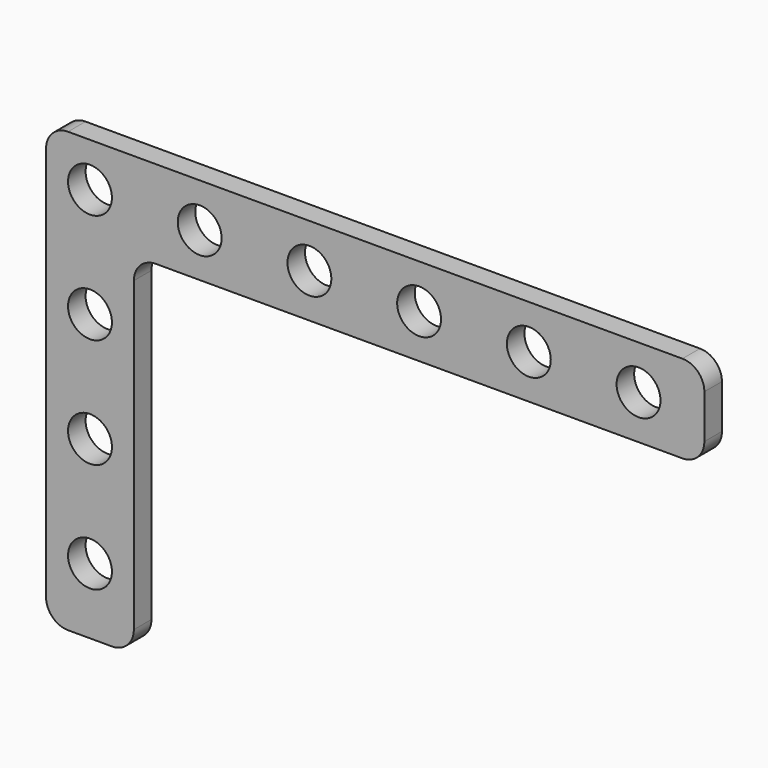
from build123d import *

# Parameters (mm, degrees)
F0_R     = 2
F1_DEPTH = 2
F2_R     = 2


with BuildPart() as f1:
    # F0 (on Front) → F1 (new body)
    with BuildSketch(Plane.XZ):
        Polygon((-17.038149, 20.423017), (-17.038149, -19.576983), (-9.038149, -19.576983), (-9.038149, 12.423017), (42.961851, 12.423017), (42.961851, 20.423017), align=None)
        with Locations((-13.038149, -13.576983)):
            Circle(F0_R, mode=Mode.SUBTRACT)
        with Locations((-13.038149, -3.576983)):
            Circle(F0_R, mode=Mode.SUBTRACT)
        with Locations((-13.038149, 6.423017)):
            Circle(F0_R, mode=Mode.SUBTRACT)
        with Locations((-13.038149, 16.423017)):
            Circle(F0_R, mode=Mode.SUBTRACT)
        with Locations((-3.038149, 16.423017)):
            Circle(F0_R, mode=Mode.SUBTRACT)
        with Locations((6.961851, 16.423017)):
            Circle(F0_R, mode=Mode.SUBTRACT)
        with Locations((16.961851, 16.423017)):
            Circle(F0_R, mode=Mode.SUBTRACT)
        with Locations((26.961851, 16.423017)):
            Circle(F0_R, mode=Mode.SUBTRACT)
        with Locations((36.961851, 16.423017)):
            Circle(F0_R, mode=Mode.SUBTRACT)
    extrude(amount=F1_DEPTH)

    # F2
    f2_edges = [f1.edges().sort_by_distance(p)[0] for p in [
        (-17.038149, -1, 20.423017),
        (42.961851, -1, 20.423017),
        (42.961851, -1, 12.423017),
        (-9.038149, -1, 12.423017),
        (-9.038149, -1, -19.576983),
        (-17.038149, -1, -19.576983),
    ]]
    fillet(f2_edges, radius=F2_R)


solid = f1.part
